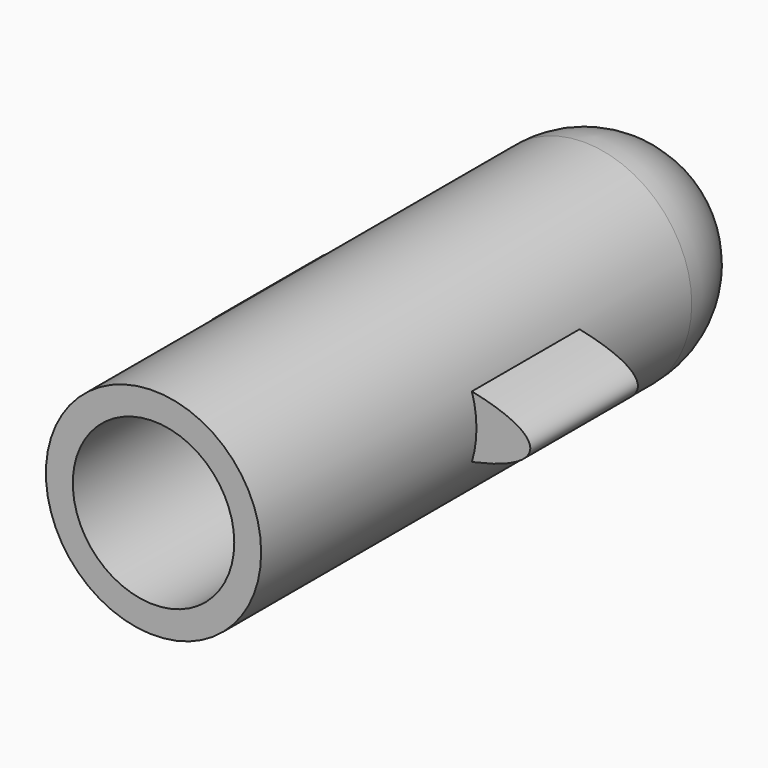
from build123d import *

# Parameters (mm, degrees)
F1_R      = 2.54
F2_DEPTH  = 12.7
F3_R      = 1.905
F4_DEPTH  = 10.16
F10_DEPTH = 3.175
F11_R     = 1.905
F12_DEPTH = 3.175


with BuildPart() as f2:
    # F1 (on Front) → F2 (new body)
    with BuildSketch(Plane.XZ):
        Circle(F1_R)
    extrude(amount=F2_DEPTH)

    # F3 (on face) → F4 (cut)
    with BuildSketch(Plane.XZ.offset(12.7)):
        Circle(F3_R)
    extrude(amount=-F4_DEPTH, mode=Mode.SUBTRACT)

    # F5 (on Right) → F7 (revolve)
    with BuildSketch(Plane.YZ):
        with BuildLine():
            ThreePointArc((2.54, 0), (1.7960512242, 1.7960512242), (0, 2.54))
            Line((0, 2.54), (0, 0))
            Line((0, 0), (2.54, 0))
        make_face()
    revolve(axis=Axis((0, 0.1524034305, 0), (0, -1, 0)))

    # F9 (on offset) → F10 (join)
    with BuildSketch(Plane.XZ.offset(3.175)):
        with BuildLine():
            add(Edge.make_bspline(
                [(-3.81, 0), (-3.81, -1.6497783942), (1.905, -0.8248891971), (7.62, 0), (1.905, 0.8248891971), (-3.81, 1.6497783942), (-3.81, 0)],
                knots=[0, 0, 0, 2.0943951024, 2.0943951024, 4.1887902048, 4.1887902048, 6.2831853072, 6.2831853072, 6.2831853072], degree=2, weights=[1, 0.5, 1, 0.5, 1, 0.5, 1]))
        make_face()
    extrude(amount=F10_DEPTH)

    # F11 (on face) → F12 (cut)
    with BuildSketch(Plane.XZ.offset(6.35)):
        Circle(F11_R)
    extrude(amount=-F12_DEPTH, mode=Mode.SUBTRACT)


solid = f2.part
